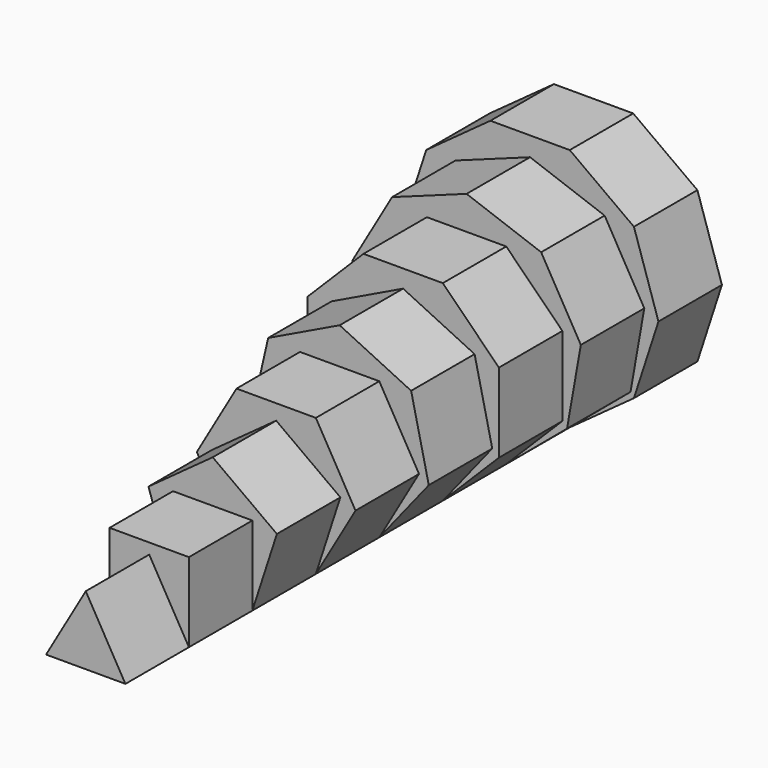
from build123d import *

# Parameters (mm, degrees)
F1_DEPTH  = 203.2
F2_W      = 25.4
F2_H      = 25.4
F3_DEPTH  = 177.8
F5_DEPTH  = 152.4
F7_DEPTH  = 127
F9_DEPTH  = 101.6
F11_DEPTH = 76.2
F13_DEPTH = 50.8
F15_DEPTH = 25.4
F16_R     = 0.508
F17_DEPTH = 190.5
F18_R     = 0.381
F19_DEPTH = 215.9
F20_R     = 0.635
F21_DEPTH = 165.1


with BuildPart() as f1:
    # F0 (on Front) → F1 (new body)
    with BuildSketch(Plane.XZ):
        Polygon((-12.7, -7.332348), (12.7, -7.332348), (0, 14.664697), align=None)
        Polygon((-12.7, -7.332348), (12.7, -7.332348), (0, 14.664697), align=None)
    extrude(amount=F1_DEPTH)

    # F2 (on Front) → F3 (join)
    with BuildSketch(Plane.XZ):
        with Locations((0, 5.367652)):
            Rectangle(F2_W, F2_H)
    extrude(amount=F3_DEPTH)

    # F4 (on Front) → F5 (join)
    with BuildSketch(Plane.XZ):
        Polygon((-12.7, -7.332348), (12.7, -7.332348), (20.549032, 16.824487), (0, 31.754233), (-20.549032, 16.824487), align=None)
    extrude(amount=F5_DEPTH)

    # F6 (on Front) → F7 (join)
    with BuildSketch(Plane.XZ):
        Polygon((-12.7, -7.332348), (12.7, -7.332348), (25.4, 14.664697), (12.7, 36.661742), (-12.7, 36.661742), (-25.4, 14.664697), align=None)
    extrude(amount=F7_DEPTH)

    # F8 (on Front) → F9 (join)
    with BuildSketch(Plane.XZ):
        Polygon((-12.7, -7.332348), (12.7, -7.332348), (28.536641, 12.526171), (22.884609, 37.28934), (0, 48.309987), (-22.884609, 37.28934), (-28.536641, 12.526171), align=None)
        Polygon((-12.7, -7.332348), (12.7, -7.332348), (28.536641, 12.526171), (22.884609, 37.28934), (0, 48.309987), (-22.884609, 37.28934), (-28.536641, 12.526171), align=None)
    extrude(amount=F9_DEPTH)

    # F10 (on Front) → F11 (join)
    with BuildSketch(Plane.XZ):
        Polygon((-12.7, -7.332348), (12.7, -7.332348), (30.660512, 10.628164), (30.660512, 36.028164), (12.7, 53.988676), (-12.7, 53.988676), (-30.660512, 36.028164), (-30.660512, 10.628164), align=None)
    extrude(amount=F11_DEPTH)

    # F12 (on Front) → F13 (join)
    with BuildSketch(Plane.XZ):
        Polygon((-12.7, -7.332348), (12.7, -7.332348), (32.157529, 8.994457), (36.568193, 34.008574), (23.868193, 56.005619), (0, 64.692931), (-23.868193, 56.005619), (-36.568193, 34.008574), (-32.157529, 8.994457), align=None)
    extrude(amount=F13_DEPTH)

    # F14 (on Front) → F15 (join)
    with BuildSketch(Plane.XZ):
        Polygon((-12.7, -7.332348), (12.7, -7.332348), (33.249032, 7.597397), (41.098063, 31.754233), (33.249032, 55.911068), (12.7, 70.840813), (-12.7, 70.840813), (-33.249032, 55.911068), (-41.098063, 31.754233), (-33.249032, 7.597397), align=None)
    extrude(amount=F15_DEPTH)

    # F16 (on face) → F17 (join)
    with BuildSketch(Plane.XZ.offset(177.8)):
        with Locations((0, 5.367652)):
            Circle(F16_R)
    extrude(amount=-F17_DEPTH)

    # F18 (on face) → F19 (join)
    with BuildSketch(Plane.XZ.offset(203.2)):
        Circle(F18_R)
    extrude(amount=-F19_DEPTH)

    # F20 (on face) → F21 (join)
    with BuildSketch(Plane.XZ.offset(152.4)):
        with Locations((0, 10.147702)):
            Circle(F20_R)
    extrude(amount=-F21_DEPTH)


solid = f1.part
